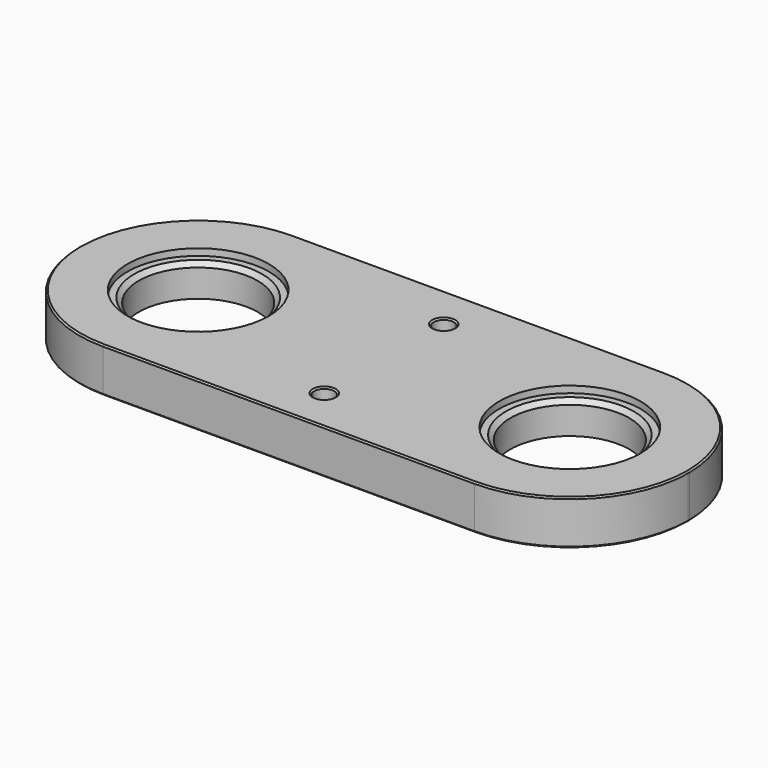
from build123d import *

# Parameters (mm, degrees)
F0_R     = 3.375
F0_R_2   = 20
F1_DEPTH = 15
F2_R     = 31.5
F3_DEPTH = 2
F4_SIZE  = 0.5
F5_SIZE  = 0.5
F6_R     = 23.75
F7_DEPTH = 2.25
F8_SIZE  = 1.5


with BuildPart() as f1:
    # F0 (on Top) → F1 (new body)
    with BuildSketch(Plane.XY):
        with BuildLine():
            ThreePointArc((-102.5, -0.229013), (-90.703842, -28.365124), (-62.500656, -40))
            Line((-62.500656, -40), (62.500656, -40))
            ThreePointArc((62.500656, -40), (90.703842, -28.365124), (102.5, -0.229013))
            Line((102.5, -0.229013), (102.5, 0.229013))
            ThreePointArc((102.5, 0.229013), (90.703842, 28.365124), (62.500656, 40))
            Line((62.500656, 40), (-62.500656, 40))
            ThreePointArc((-62.500656, 40), (-90.703842, 28.365124), (-102.5, 0.229013))
            Line((-102.5, 0.229013), (-102.5, -0.229013))
        make_face()
        with Locations((0, -25.125)):
            Circle(F0_R, mode=Mode.SUBTRACT)
        with Locations((-62.500656, 0)):
            Circle(F0_R_2, mode=Mode.SUBTRACT)
        with Locations((62.500656, 0)):
            Circle(F0_R_2, mode=Mode.SUBTRACT)
        with Locations((0, 25.125)):
            Circle(F0_R, mode=Mode.SUBTRACT)
        with BuildLine():
            ThreePointArc((-102.5, 0.229013), (-102.500656, 0), (-102.5, -0.229013))
            Line((-102.5, -0.229013), (-102.5, 0.229013))
        make_face()
        with BuildLine():
            Line((102.5, 0.229013), (102.5, -0.229013))
            ThreePointArc((102.5, -0.229013), (102.500656, 0), (102.5, 0.229013))
        make_face()
    extrude(amount=F1_DEPTH)

    # F2 (on face) → F3 (cut)
    with BuildSketch(Plane(origin=(0, 0, 0), x_dir=(1, 0, 0), z_dir=(0, 0, -1))):
        with Locations((-62.500656, 0)):
            Circle(F2_R)
        with Locations((62.500656, 0)):
            Circle(F2_R)
    extrude(amount=-F3_DEPTH, mode=Mode.SUBTRACT)

    # F4
    f4_edges = [f1.edges().sort_by_distance(p)[0] for p in [
        (62.500656, 40, 7.5),
        (-62.500656, 40, 7.5),
        (0, 40, 0),
        (0, 40, 15),
    ]]
    chamfer(f4_edges, length=F4_SIZE)

    # F5
    f5_edges = [f1.edges().sort_by_distance(p)[0] for p in [
        (-3.375, -25.125, 15),
        (-3.375, 25.125, 15),
        (-3.375, -25.125, 0),
        (-3.375, 25.125, 0),
    ]]
    chamfer(f5_edges, length=F5_SIZE)

    # F6 (on face) → F7 (cut)
    with BuildSketch(Plane.XY.offset(15)):
        with Locations((-62.500656, 0)):
            Circle(F6_R)
        with Locations((62.500656, 0)):
            Circle(F6_R)
    extrude(amount=-F7_DEPTH, mode=Mode.SUBTRACT)

    # F8
    f8_edges = [f1.edges().sort_by_distance(p)[0] for p in [
        (-82.500656, 0, 12.75),
        (42.500656, 0, 12.75),
    ]]
    chamfer(f8_edges, length=F8_SIZE)


solid = f1.part
